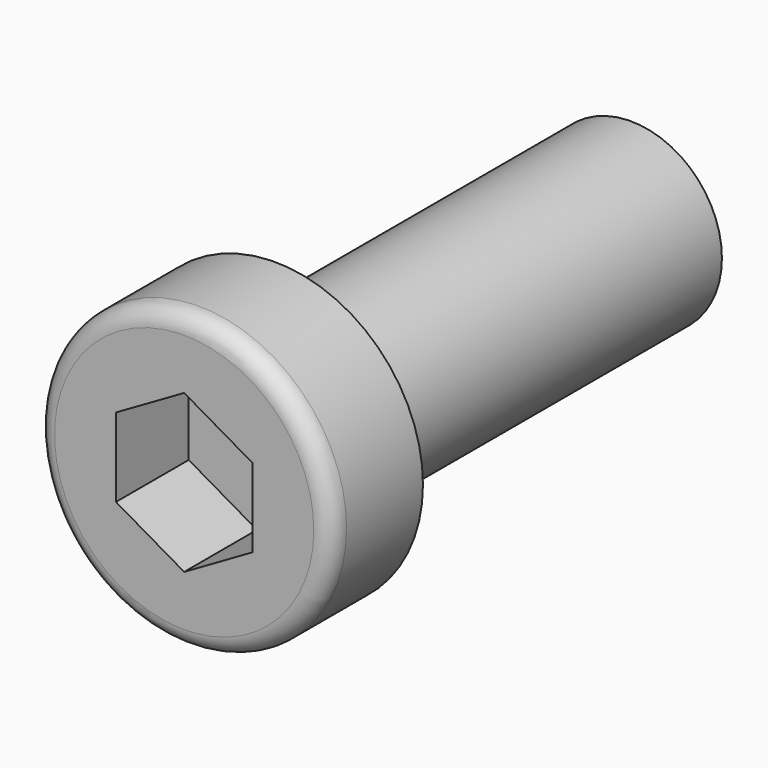
from build123d import *

# Parameters (mm, degrees)
POCKET_DEPTH = 4


with BuildPart() as part:
    # Sketch → Revolution (revolve)
    with BuildSketch(Plane.XY):
        with BuildLine():
            Line((4, 0), (6.5, 0))
            Line((6.5, 0), (6.5, -4.2))
            ThreePointArc((5.7, -5), (6.265685, -4.765685), (6.5, -4.2))
            Line((5.7, -5), (0, -5))
            Line((0, -5), (0, 20))
            Line((0, 20), (3.235, 20))
            Line((3.235, 20), (4, 19.558327))
            Line((4, 19.558327), (4, 0))
        make_face()
    revolve(axis=Axis((0, 0, 0), (0, 1, 0)))

    # Sketch001 → Pocket (cut)
    with BuildSketch(Plane.XZ.offset(5)):
        Polygon((-3, 1.732051), (-3, -1.732051), (0, -3.464102), (3, -1.732051), (3, 1.732051), (0, 3.464102), align=None)
    extrude(amount=-POCKET_DEPTH, mode=Mode.SUBTRACT)


solid = part.part
